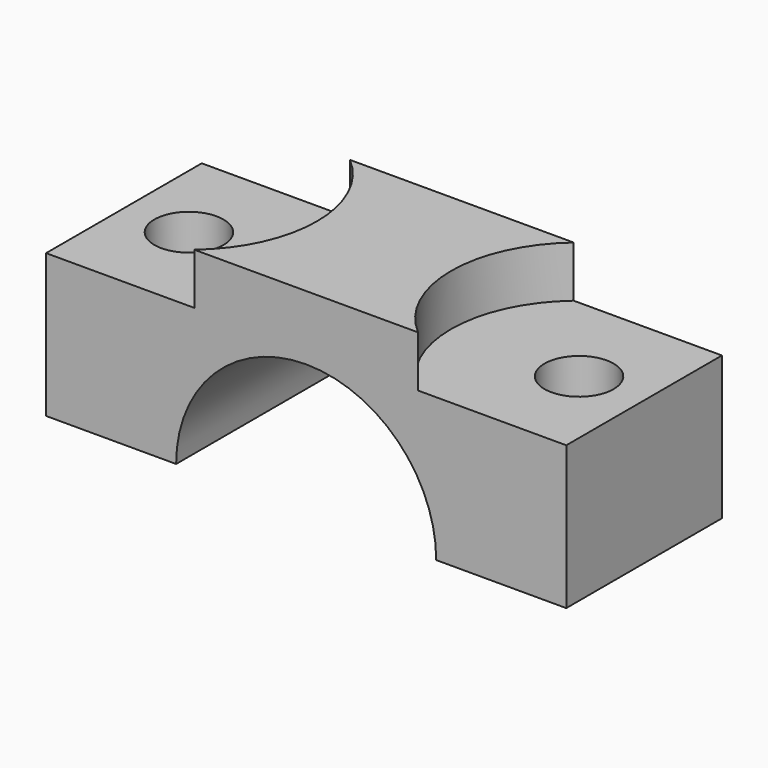
from build123d import *

# Parameters (mm, degrees)
F1_DEPTH = 19
F2_R     = 3.375
F3_DEPTH = 19
F4_R     = 12.5
F5_DEPTH = 5


with BuildPart() as f1:
    # F0 (on Front) → F1 (new body)
    with BuildSketch(Plane.XZ):
        with BuildLine():
            ThreePointArc((-12.7, 0), (0, 12.7), (12.7, 0))
            Line((12.7, 0), (25.4, 0))
            Line((25.4, 0), (25.4, 19))
            Line((25.4, 19), (-25.4, 19))
            Line((-25.4, 19), (-25.4, 0))
            Line((-25.4, 0), (-12.7, 0))
        make_face()
    extrude(amount=-F1_DEPTH)

    # F2 (on face) → F3 (cut, through all)
    with BuildSketch(Plane(origin=(0, 0, 0), x_dir=(1, 0, 0), z_dir=(0, 0, -1))):
        with Locations((-19.05, -9.5)):
            Circle(F2_R)
        with Locations((19.05, -9.5)):
            Circle(F2_R)
    extrude(amount=-F3_DEPTH, mode=Mode.SUBTRACT)

    # F4 (on face) → F5 (cut)
    with BuildSketch(Plane.XY.offset(19)):
        with Locations((-19.05, 9.5)):
            Circle(F4_R)
        with Locations((19.05, 9.5)):
            Circle(F4_R)
    extrude(amount=-F5_DEPTH, mode=Mode.SUBTRACT)


solid = f1.part
